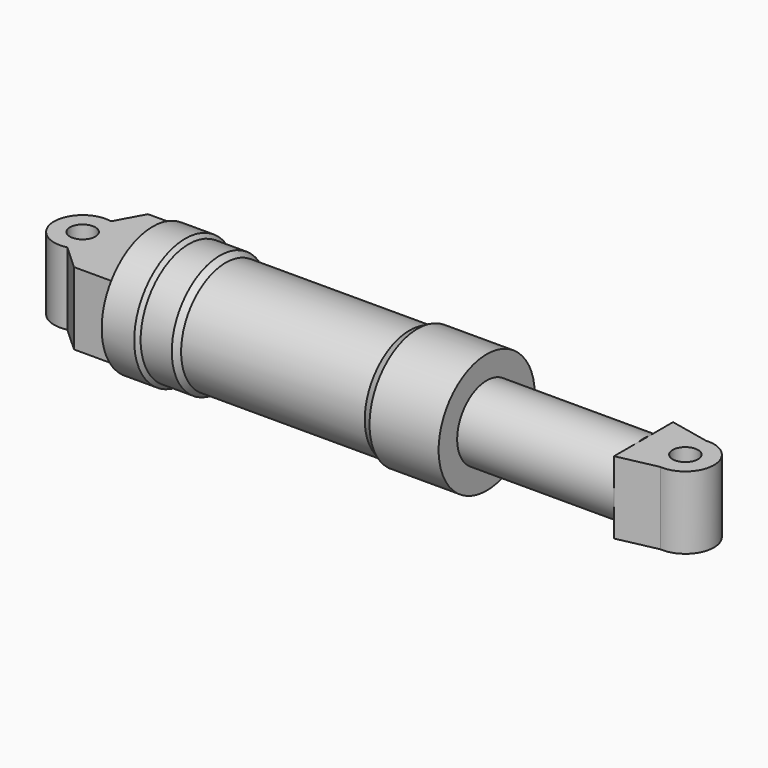
from build123d import *

# Parameters (mm, degrees)
F0_W          = 38.1
F0_H          = 11.6298962384
F0_W_2        = 49.4445450604
F0_R          = 4
F3_DEPTH      = 11.43
F3_DEPTH_BACK = 11.43
F4_DEPTH      = 11.43
F4_DEPTH_BACK = 11.43


with BuildPart() as f1:
    # F0 (on Top) → F1 (revolve)
    with BuildSketch(Plane.XY):
        Polygon((10.5896452442, 18.9371332526), (8.0091310665, 17.5950117409), (-49.8771630228, 17.5950117409), (-51.7390035093, 18.949078396), (-61.5559779108, 18.949078396), (-62.6355782151, 20.1338864863), (-72.8956460953, 20.1338864863), (-72.8956460953, 17.4524304397), (-72.8956460953, 0), (-5.7279388368, 0), (-5.7279388368, 11.6298962384), (32.3720611632, 11.6298962384), (32.3720611632, 18.9371332526), align=None)
        with Locations((13.3220611632, 5.8149481192)):
            Rectangle(F0_W, F0_H)
    revolve(axis=Axis((4.4604800642, 0, 0), (1, 0, 0)))

    # F0 (on Top) → F4 (join, two sides)
    with BuildSketch(Plane.XY) as f4_sk:
        with BuildLine():
            Line((-72.8956460953, 0), (-72.8956460953, 17.4524304397))
            Line((-72.8956460953, 17.4524304397), (-88.3703300601, 17.4524304397))
            Line((-88.3703300601, 17.4524304397), (-93.1004801636, 8.7972623237))
            ThreePointArc((-93.1004801636, 8.7972623237), (-103.9990803927, -0.1286549099), (-92.8497686305, -8.7393652548))
            Line((-92.8497686305, -8.7393652548), (-84.9520042539, -15.9512963146))
            Line((-84.9520042539, -15.9512963146), (-72.8956460953, -15.9512963146))
            Line((-72.8956460953, -15.9512963146), (-72.8956460953, 0))
        make_face()
        with Locations((-95, 0)):
            Circle(F0_R, mode=Mode.SUBTRACT)
    extrude(amount=F4_DEPTH)
    extrude(f4_sk.sketch, amount=-F4_DEPTH_BACK)


with BuildPart() as f2:
    # F0 (on Top) → F2 (revolve)
    with BuildSketch(Plane.XY):
        with Locations((57.0943336934, 5.8149481192)):
            Rectangle(F0_W_2, F0_H)
        with Locations((13.3220611632, 5.8149481192)):
            Rectangle(F0_W, F0_H)
    revolve(axis=Axis((4.4604800642, 0, 0), (1, 0, 0)))

    # F0 (on Top) → F3 (join, two sides)
    with BuildSketch(Plane.XY) as f3_sk:
        with BuildLine():
            Line((94.2947969589, 8.972329055), (81.8166062236, 11.6298962384))
            Line((81.8166062236, 11.6298962384), (81.8166062236, 0))
            Line((81.8166062236, 0), (81.8166062236, -11.6298962384))
            Line((81.8166062236, -11.6298962384), (94.2947969589, -8.972329055))
            ThreePointArc((94.2947969589, -8.972329055), (104, 0), (94.2947969589, 8.972329055))
        make_face()
        with Locations((95, 0)):
            Circle(F0_R, mode=Mode.SUBTRACT)
    extrude(amount=F3_DEPTH)
    extrude(f3_sk.sketch, amount=-F3_DEPTH_BACK)


solid = Compound([f1.part, f2.part])
